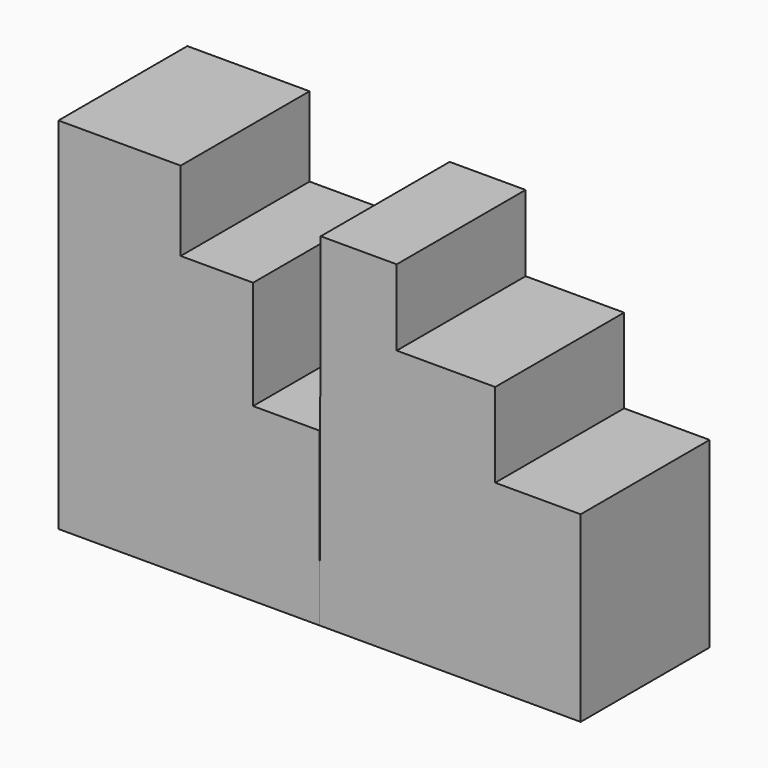
from build123d import *

# Parameters (mm, degrees)
F0_W     = 8.250609
F0_H     = 21.289527
F0_W_2   = 10.607928
F0_H_2   = 22.689193
F1_DEPTH = 20


with BuildPart() as f1:
    # F0 (on Front) → F1 (new body)
    with BuildSketch(Plane.XZ):
        Polygon((0, 44.641711), (0, 0), (15.175223, 0), (15.175223, 34.770444), (15.175223, 44.641711), align=None)
        Polygon((32.560438, 42.579055), (32.41311, 0), (41.989714, 0), (41.989714, 33.149786), (41.989714, 42.579055), align=None)
        Polygon((15.175223, 34.770444), (15.175223, 0), (24.162501, 0), (24.162501, 21.289527), (24.162501, 34.770444), align=None)
        with Locations((28.287805, 10.644763)):
            Rectangle(F0_W, F0_H)
        Polygon((41.989714, 33.149786), (41.989714, 0), (54.218292, 0), (54.218292, 22.689193), (54.218292, 33.149786), align=None)
        with Locations((59.522256, 11.344596)):
            Rectangle(F0_W_2, F0_H_2)
    extrude(amount=F1_DEPTH)


solid = f1.part
